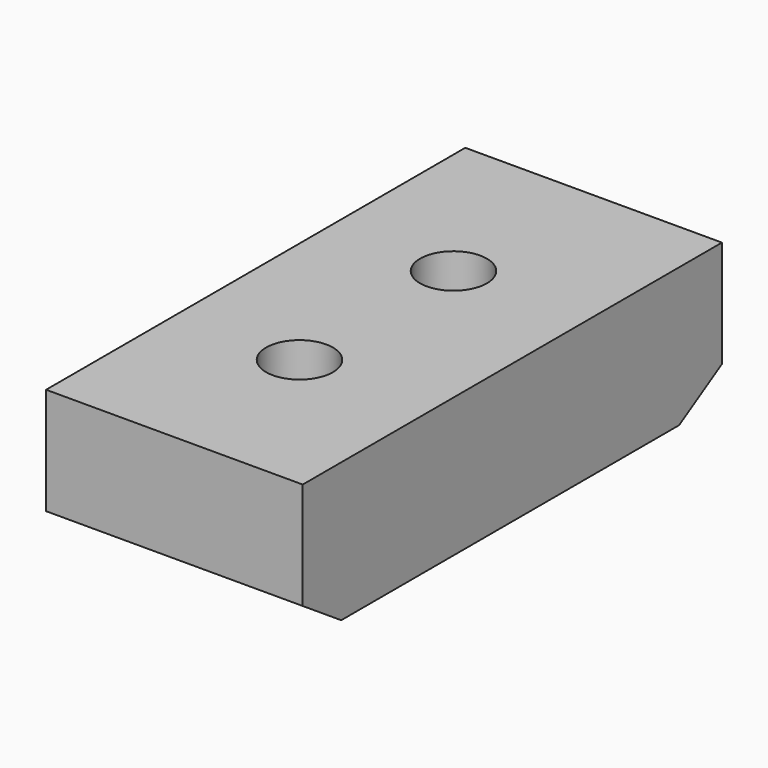
from build123d import *

# Parameters (mm, degrees)
PAD001_DEPTH    = 24
SKETCH021_R     = 3.125
POCKET019_DEPTH = 49.001


with BuildPart() as part:
    # Sketch020 → Pad001 (new body)
    with BuildSketch(Plane.YZ.offset(143.5)):
        Polygon((-40.25, 49), (8.75, 49), (8.75, 39), (3.75, 36), (-35.75, 36), (-40.25, 39), align=None)
    extrude(amount=PAD001_DEPTH)

    # Sketch021 → Pocket019 (cut, through all)
    with BuildSketch(Plane.XY):
        with Locations((155, -7)):
            Circle(SKETCH021_R)
        with Locations((155, -25)):
            Circle(SKETCH021_R)
    extrude(amount=POCKET019_DEPTH, mode=Mode.SUBTRACT)


solid = part.part
